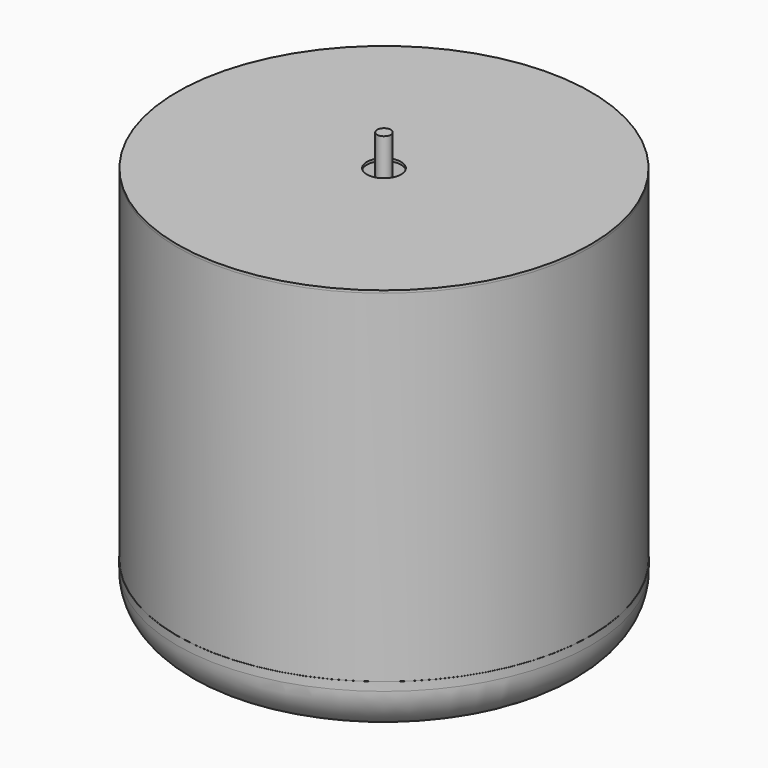
from build123d import *

# Parameters (mm, degrees)
F9_T     = -5
F10_W    = 4
F10_H    = 2000
F11_W    = 1209
F11_H    = 15
F3_R     = 100
F4_DEPTH = 2540.1454776065
F12_W    = 40
F12_H    = 2500


with BuildPart() as f8:
    # F0 (on Front) → F8 (revolve)
    with BuildSketch(Plane.XZ):
        with BuildLine():
            Line((0, 0), (0, -525.1444776065))
            ThreePointArc((0, -525.1444776065), (544.4559275248, -464.2644294772), (1062.0181405896, -284.6314901689))
            ThreePointArc((1062.0181405896, -284.6314901689), (1169.9144339889, -188.6998259673), (1210, -50))
            Line((1210, -50), (1210, 0))
            Line((1210, 0), (0, 0))
        make_face()
    revolve(axis=Axis((0, 0, -262.5722388032), (0, 0, -1)))

    # F9
    f9_openings = [f8.faces().sort_by_distance(p)[0] for p in [
        (0, 0, 0),
    ]]
    offset(amount=F9_T, openings=f9_openings)


with BuildPart() as f1:
    # F10 (on Front) → F1 (revolve)
    with BuildSketch(Plane.XZ):
        with Locations((1207, 1000)):
            Rectangle(F10_W, F10_H)
    revolve(axis=Axis((0, 0, -262.5722388032), (0, 0, -1)))


with BuildPart() as f2:
    # F11 (on Front) → F2 (revolve)
    with BuildSketch(Plane.XZ):
        with Locations((604.5, 2007.5)):
            Rectangle(F11_W, F11_H)
    revolve(axis=Axis((0, 0, 2007.5), (0, 0, -1)))

    # F3 (on face) → F4 (cut, through all)
    with BuildSketch(Plane.XY.offset(2015)):
        Circle(F3_R)
    extrude(amount=-F4_DEPTH, mode=Mode.SUBTRACT)


with BuildPart() as f6:
    # F12 (on Front) → F6 (revolve)
    with BuildSketch(Plane.XZ):
        with Locations((20, 950)):
            Rectangle(F12_W, F12_H)
    revolve(axis=Axis((0, 0, 78.9392143488), (0, 0, 1)))


solid = Compound([f8.part, f1.part, f2.part, f6.part])
